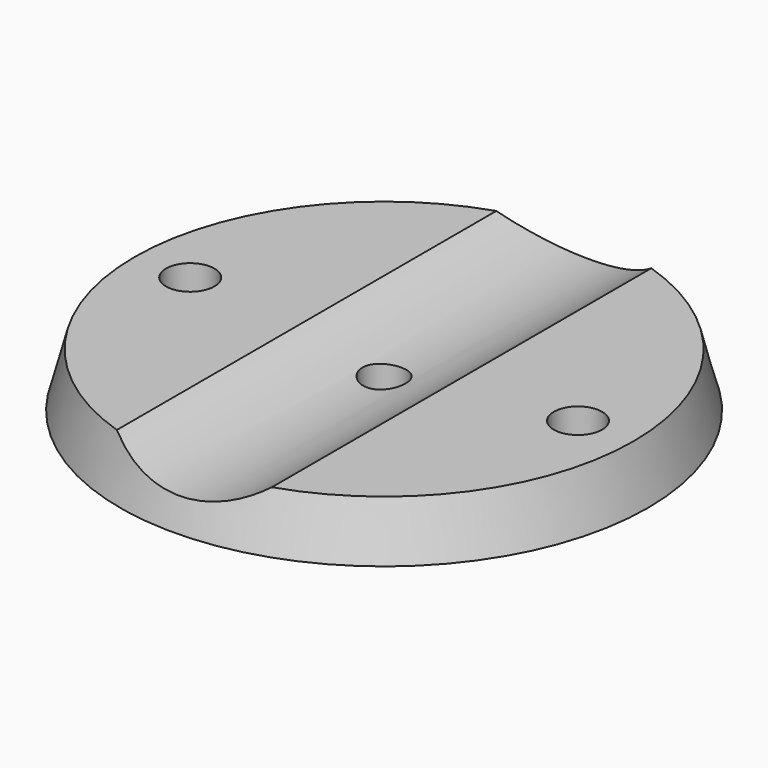
from build123d import *

# Parameters (mm, degrees)
F3_DEPTH      = 38.9011
F3_DEPTH_BACK = 38.9011
F4_R          = 3.175
F4_R_2        = 3.5687
F5_DEPTH      = 7.9512001


with BuildPart() as f1:
    # F0 (on Front) → F1 (revolve)
    with BuildSketch(Plane.XZ):
        Polygon((36.7698503303, 7.9502), (0, 7.9502), (0, 0), (38.9001, 0), align=None)
    revolve(axis=Axis((0, 0, 3.9751), (0, 0, -1)))

    # F2 (on Front) → F3 (cut, two sides)
    with BuildSketch(Plane.XZ) as f3_sk:
        with BuildLine():
            Line((11.4236482351, 7.9502), (-11.4236482351, 7.9502))
            ThreePointArc((-11.4236482351, 7.9502), (0, 4.2672), (11.4236482351, 7.9502))
        make_face()
    extrude(amount=-F3_DEPTH, mode=Mode.SUBTRACT)
    extrude(f3_sk.sketch, amount=F3_DEPTH_BACK, mode=Mode.SUBTRACT)

    # F4 (on face) → F5 (cut, through all)
    with BuildSketch(Plane(origin=(0, 0, 0), x_dir=(1, 0, 0), z_dir=(0, 0, -1))):
        Circle(F4_R)
        with Locations((-28.575, 0)):
            Circle(F4_R_2)
        with Locations((28.575, 0)):
            Circle(F4_R_2)
    extrude(amount=-F5_DEPTH, mode=Mode.SUBTRACT)


solid = f1.part
